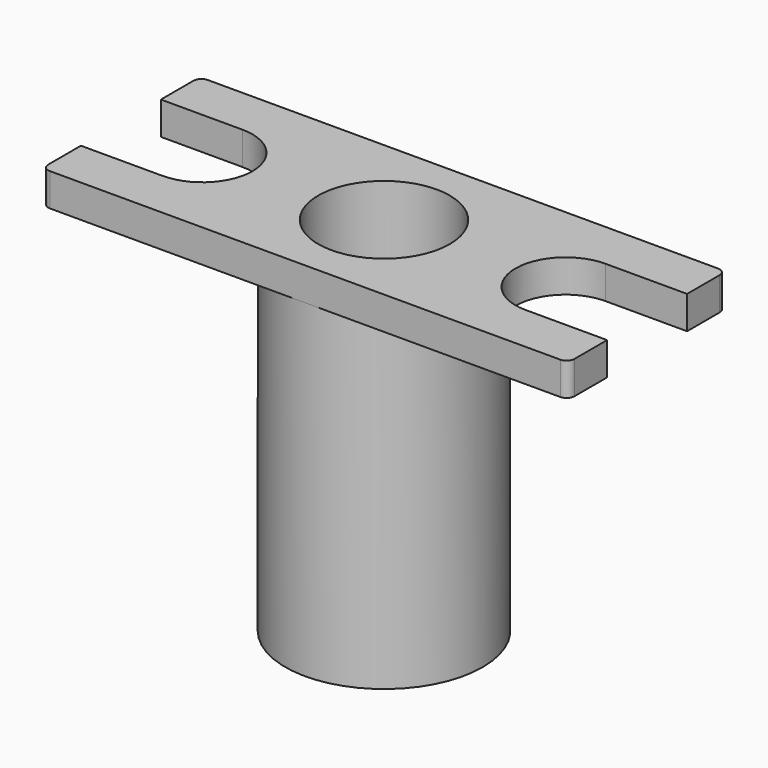
from build123d import *

# Parameters (mm, degrees)
F1_DEPTH  = 6.35
F2_R      = 1.524
F3_R      = 1.524
F4_R      = 1.524
F5_R      = 1.524
F6_R      = 19.05
F7_DEPTH  = 63.5
F8_R      = 12.7
F9_DEPTH  = 63.5
F10_R     = 4.7625
F11_DEPTH = 69.851


with BuildPart() as f1:
    # F0 (on Top) → F1 (new body)
    with BuildSketch(Plane.XY):
        with BuildLine():
            Line((0, 9.398), (0, 0))
            Line((0, 0), (101.6, 0))
            Line((101.6, 0), (101.6, 9.398))
            Line((101.6, 9.398), (85.852, 9.398))
            ThreePointArc((85.852, 9.398), (76.2, 19.05), (85.852, 28.702))
            Line((85.852, 28.702), (101.6, 28.702))
            Line((101.6, 28.702), (101.6, 38.1))
            Line((101.6, 38.1), (0, 38.1))
            Line((0, 38.1), (0, 28.702))
            Line((0, 28.702), (15.748, 28.702))
            ThreePointArc((15.748, 28.702), (25.4, 19.05), (15.748, 9.398))
            Line((15.748, 9.398), (0, 9.398))
        make_face()
    extrude(amount=F1_DEPTH)

    # F2
    f2_edges = [f1.edges().sort_by_distance(p)[0] for p in [
        (101.6, 0, 3.175),
    ]]
    fillet(f2_edges, radius=F2_R)

    # F3
    f3_edges = [f1.edges().sort_by_distance(p)[0] for p in [
        (101.6, 38.1, 3.175),
    ]]
    fillet(f3_edges, radius=F3_R)

    # F4
    f4_edges = [f1.edges().sort_by_distance(p)[0] for p in [
        (0, 0, 3.175),
    ]]
    fillet(f4_edges, radius=F4_R)

    # F5
    f5_edges = [f1.edges().sort_by_distance(p)[0] for p in [
        (0, 38.1, 3.175),
    ]]
    fillet(f5_edges, radius=F5_R)

    # F6 (on face) → F7 (join)
    with BuildSketch(Plane(origin=(0, 0, 0), x_dir=(1, 0, 0), z_dir=(0, 0, -1))):
        with Locations((50.8, -19.05)):
            Circle(F6_R)
    extrude(amount=F7_DEPTH)

    # F8 (on face) → F9 (cut)
    with BuildSketch(Plane.XY.offset(6.35)):
        with Locations((50.8, 19.05)):
            Circle(F8_R)
    extrude(amount=-F9_DEPTH, mode=Mode.SUBTRACT)

    # F10 (on face) → F11 (cut, through all)
    with BuildSketch(Plane(origin=(0, 0, -63.5), x_dir=(1, 0, 0), z_dir=(0, 0, -1))):
        with Locations((50.8, -19.05)):
            Circle(F10_R)
    extrude(amount=-F11_DEPTH, mode=Mode.SUBTRACT)


solid = f1.part
